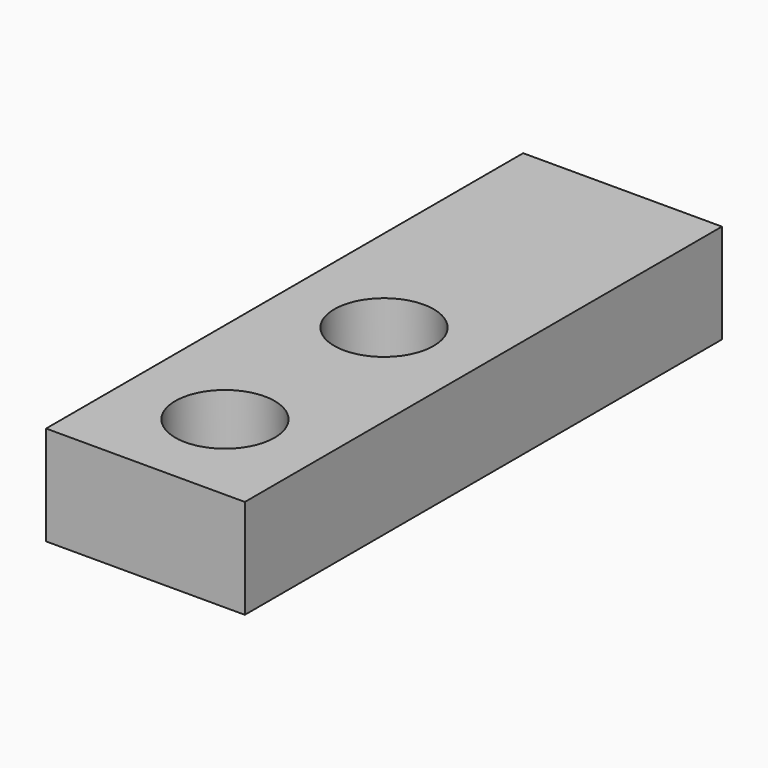
from build123d import *

# Parameters (mm, degrees)
F0_W     = 12.7
F0_H     = 6.35
F1_DEPTH = 38.1
F2_R     = 3.175
F3_DEPTH = 6.351


with BuildPart() as f1:
    # F0 (on Front) → F1 (new body)
    with BuildSketch(Plane.XZ):
        with Locations((6.35, 3.175)):
            Rectangle(F0_W, F0_H)
    extrude(amount=-F1_DEPTH)

    # F2 (on face) → F3 (cut, through all)
    with BuildSketch(Plane.XY.offset(6.35)):
        with Locations((6.35, 19.05)):
            Circle(F2_R)
        with Locations((6.35, 6.35)):
            Circle(F2_R)
    extrude(amount=-F3_DEPTH, mode=Mode.SUBTRACT)


solid = f1.part
